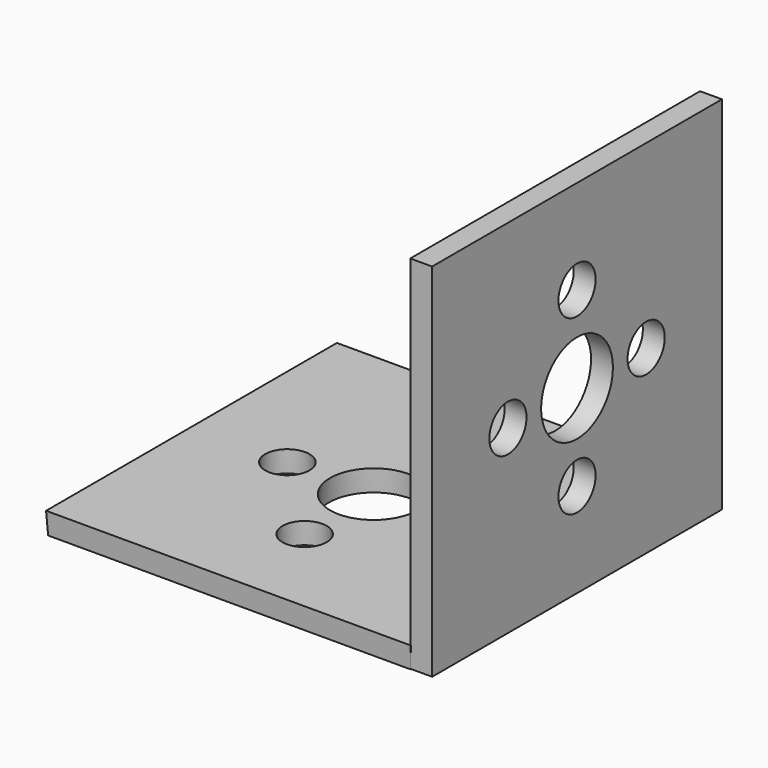
from build123d import *

# Parameters (mm, degrees)
F3_W     = 31.95
F3_H     = 31.86
F3_R     = 2.05
F3_R_2   = 3.955
F4_DEPTH = 1.9304
F1_W     = 31.95
F1_H     = 31.86
F1_R     = 2.05
F1_R_2   = 3.955
F5_DEPTH = 1.9304
F5_TAPER = -3


with BuildPart() as f4:
    # F3 (on offset) → F4 (new body)
    with BuildSketch(Plane.YZ.offset(16.002)):
        Rectangle(F3_W, F3_H)
        with Locations((0, -7.62)):
            Circle(F3_R, mode=Mode.SUBTRACT)
        with Locations((-7.62, 0)):
            Circle(F3_R, mode=Mode.SUBTRACT)
        Circle(F3_R_2, mode=Mode.SUBTRACT)
        with Locations((7.62, 0)):
            Circle(F3_R, mode=Mode.SUBTRACT)
        with Locations((0, 7.62)):
            Circle(F3_R, mode=Mode.SUBTRACT)
    extrude(amount=F4_DEPTH)

    # F1 (on offset) → F5 (join)
    with BuildSketch(Plane.XY.offset(-16.002)):
        Rectangle(F1_W, F1_H)
        with Locations((0, -7.62)):
            Circle(F1_R, mode=Mode.SUBTRACT)
        with Locations((-7.62, 0)):
            Circle(F1_R, mode=Mode.SUBTRACT)
        Circle(F1_R_2, mode=Mode.SUBTRACT)
        with Locations((7.62, 0)):
            Circle(F1_R, mode=Mode.SUBTRACT)
        with Locations((0, 7.62)):
            Circle(F1_R, mode=Mode.SUBTRACT)
    extrude(amount=F5_DEPTH, taper=F5_TAPER)


solid = f4.part
